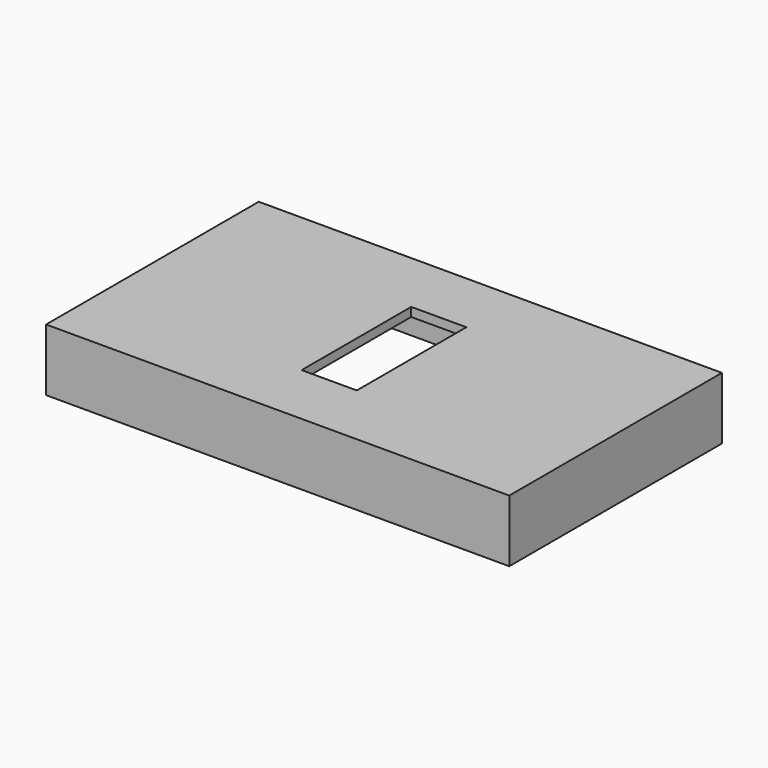
from build123d import *

# Parameters (mm, degrees)
SKETCH_W     = 52.1
SKETCH_H     = 29.9
SKETCH_W_2   = 6.2
SKETCH_H_2   = 15.4
PAD_DEPTH    = 7
SKETCH001_W  = 50.1
SKETCH001_H  = 27.9
POCKET_DEPTH = 6


with BuildPart() as part:
    # Sketch → Pad (new body)
    with BuildSketch(Plane.XY):
        Rectangle(SKETCH_W, SKETCH_H)
        Rectangle(SKETCH_W_2, SKETCH_H_2, mode=Mode.SUBTRACT)
    extrude(amount=PAD_DEPTH)

    # Sketch001 (on Face9 of Pad) → Pocket (cut)
    with BuildSketch(Plane(origin=(0, 0, 0), x_dir=(1, 0, 0), z_dir=(0, 0, -1))):
        Rectangle(SKETCH001_W, SKETCH001_H)
    extrude(amount=-POCKET_DEPTH, mode=Mode.SUBTRACT)


solid = part.part
